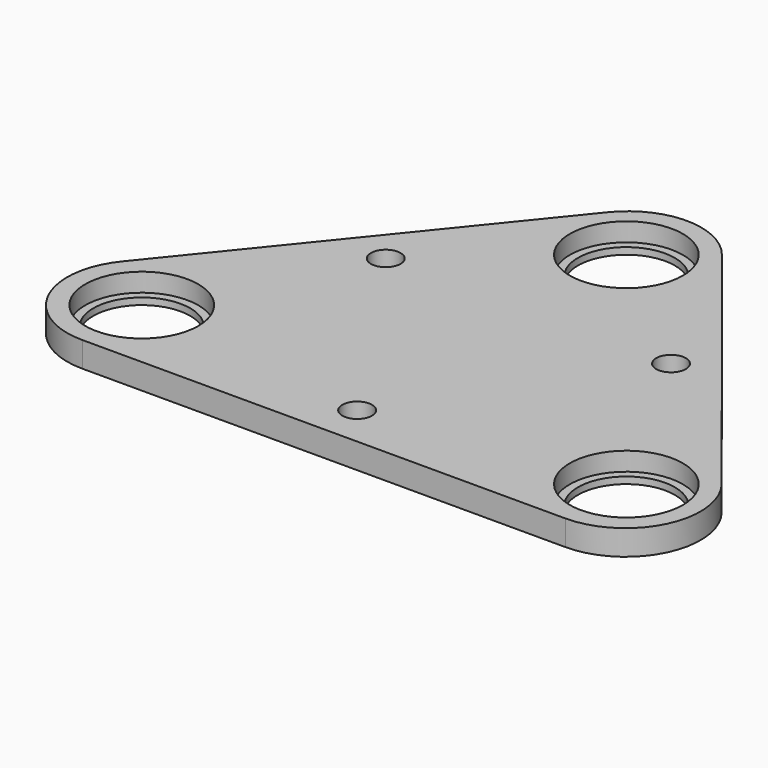
from build123d import *

# Parameters (mm, degrees)
CYLINDER001_R     = 8.4
CYLINDER001_DEPTH = 5.5
CYLINDER004_R     = 7.2
CYLINDER004_DEPTH = 6.5
CYLINDER003_R     = 10.4
CYLINDER003_DEPTH = 1
CYLINDER002_R     = 10.4
CYLINDER002_DEPTH = 2.75
SKETCH013_R       = 9.6
SKETCH013_R_2     = 2.2
PAD011_DEPTH      = 3.75


with BuildPart() as bearing_holder_extract:
    # Cylinder001 → Cylinder001 (new body)
    with BuildSketch(Plane.XY):
        Circle(CYLINDER001_R)
    extrude(amount=CYLINDER001_DEPTH)


with BuildPart() as bearing_holder_extract_fusion:
    # Cylinder004 → Cylinder004 (new body)
    with BuildSketch(Plane.XY.offset(-1)):
        Circle(CYLINDER004_R)
    extrude(amount=CYLINDER004_DEPTH)

    # Fusion001: union bearing holder extract
    add(bearing_holder_extract.part)


with BuildPart() as bearing_holder_disk:
    # Cylinder003 → Cylinder003 (new body)
    with BuildSketch(Plane.XY.offset(-1)):
        Circle(CYLINDER003_R)
    extrude(amount=CYLINDER003_DEPTH)


with BuildPart() as bearing_holder_body:
    # Cylinder002 → Cylinder002 (new body)
    with BuildSketch(Plane.XY):
        Circle(CYLINDER002_R)
    extrude(amount=CYLINDER002_DEPTH)

    # Fusion002: union bearing holder disk
    add(bearing_holder_disk.part)

    # Cut003: cut bearing holder extract fusion
    add(bearing_holder_extract_fusion.part, mode=Mode.SUBTRACT)


with BuildPart() as bearing_holder_body_1:
    # Cut003 placement: moved
    add(bearing_holder_body.part.moved(Location((0, 0, 1))))


with BuildPart() as bearing_holder_body_clone:
    # Body009 base: copy of bearing holder body
    add(bearing_holder_body_1.part)


with BuildPart() as bearing_holder_body_clone_1:
    # Clone002 placement: moved
    add(bearing_holder_body_clone.part.moved(Location((0, 0, -1))))


with BuildPart() as bearing_holder_body_clone_2:
    # Body009 placement: moved
    add(bearing_holder_body_clone_1.part.moved(Location((10, 25, 1))))


with BuildPart() as bearing_holder_body_clone001:
    # Body010 base: copy of bearing holder body
    add(bearing_holder_body_1.part)


with BuildPart() as bearing_holder_body_clone001_1:
    # Clone003 placement: moved
    add(bearing_holder_body_clone001.part.moved(Location((0, 0, -1))))


with BuildPart() as bearing_holder_body_clone001_2:
    # Body010 placement: moved
    add(bearing_holder_body_clone001_1.part.moved(Location((-26, -20, 1))))


with BuildPart() as bearing_holder_body_clone002:
    # Body011 base: copy of bearing holder body
    add(bearing_holder_body_1.part)


with BuildPart() as bearing_holder_body_clone002_1:
    # Clone004 placement: moved
    add(bearing_holder_body_clone002.part.moved(Location((0, 0, -1))))


with BuildPart() as bearing_holder_body_clone002_2:
    # Body011 placement: moved
    add(bearing_holder_body_clone002_1.part.moved(Location((46, -20, 1))))


with BuildPart() as top_bearing_plate_fusion_clone:
    # Sketch013 → Pad011 (new body)
    with BuildSketch(Plane.XY):
        with BuildLine():
            Line((1.646601, 32.001411), (-34.644004, -12.858892))
            ThreePointArc((-34.644004, -12.858892), (-36.048496, -24.763041), (-25.91021, -31.158079))
            Line((-25.91021, -31.158079), (45.861431, -31.158079))
            ThreePointArc((45.861431, -31.158079), (55.920577, -24.833853), (54.581009, -13.027591))
            Line((54.581009, -13.027591), (18.635324, 31.950884))
            ThreePointArc((18.635324, 31.950884), (10.153066, 36.045837), (1.646601, 32.001411))
        make_face()
        with Locations((-25.91021, -19.924263)):
            Circle(SKETCH013_R, mode=Mode.SUBTRACT)
        with Locations((10.120649, 25.146166)):
            Circle(SKETCH013_R, mode=Mode.SUBTRACT)
        with Locations((45.861431, -19.996062)):
            Circle(SKETCH013_R, mode=Mode.SUBTRACT)
        with Locations((-11.219142, 6.834813)):
            Circle(SKETCH013_R_2, mode=Mode.SUBTRACT)
        with Locations((10.016696, -25.022005)):
            Circle(SKETCH013_R_2, mode=Mode.SUBTRACT)
        with Locations((31.129337, 6.879182)):
            Circle(SKETCH013_R_2, mode=Mode.SUBTRACT)
    extrude(amount=PAD011_DEPTH)

    # Fusion003: union bearing holder body clone, bearing holder body clone001, bearing holder body clone002
    add(bearing_holder_body_clone_2.part)
    add(bearing_holder_body_clone001_2.part)
    add(bearing_holder_body_clone002_2.part)


with BuildPart() as top_bearing_plate_fusion_clone_1:
    # Body021 placement: moved
    add(top_bearing_plate_fusion_clone.part.moved(Location((-10, -8, 0))))


solid = top_bearing_plate_fusion_clone_1.part
